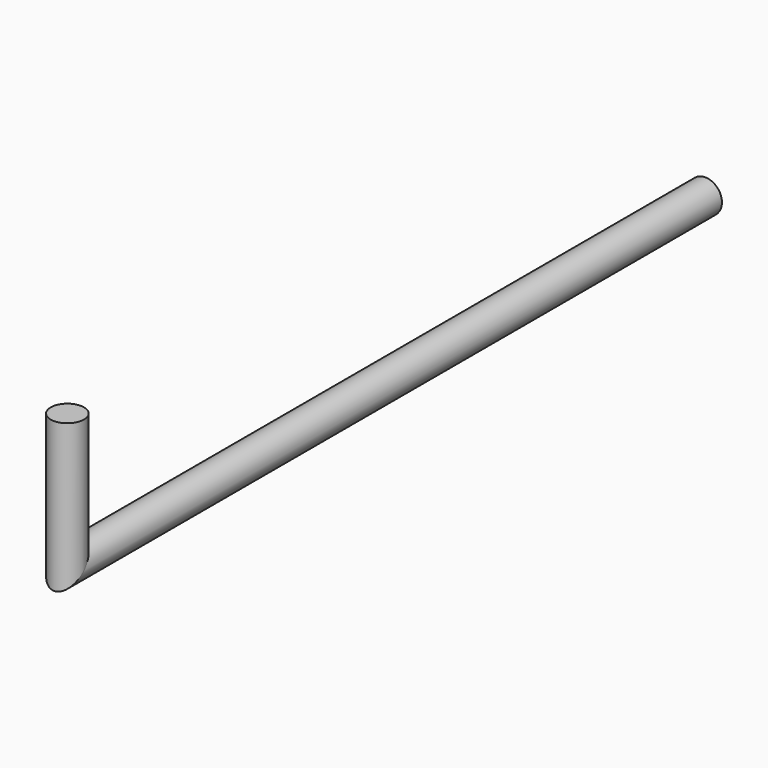
from build123d import *

# Parameters (mm, degrees)
F0_R = 3.175


with BuildPart() as f2:
    # F2: sweep along a path in F1
    with BuildLine(Plane.YZ) as f2_path:
        Line((0, 0), (-152.4, 0))
        Line((-152.4, 0), (-152.4, 25.4))
    # F0 (on Front) → F2 (sweep)
    with BuildSketch(Plane.XZ):
        Circle(F0_R)
    sweep(path=f2_path.line, transition=Transition.RIGHT)


solid = f2.part
